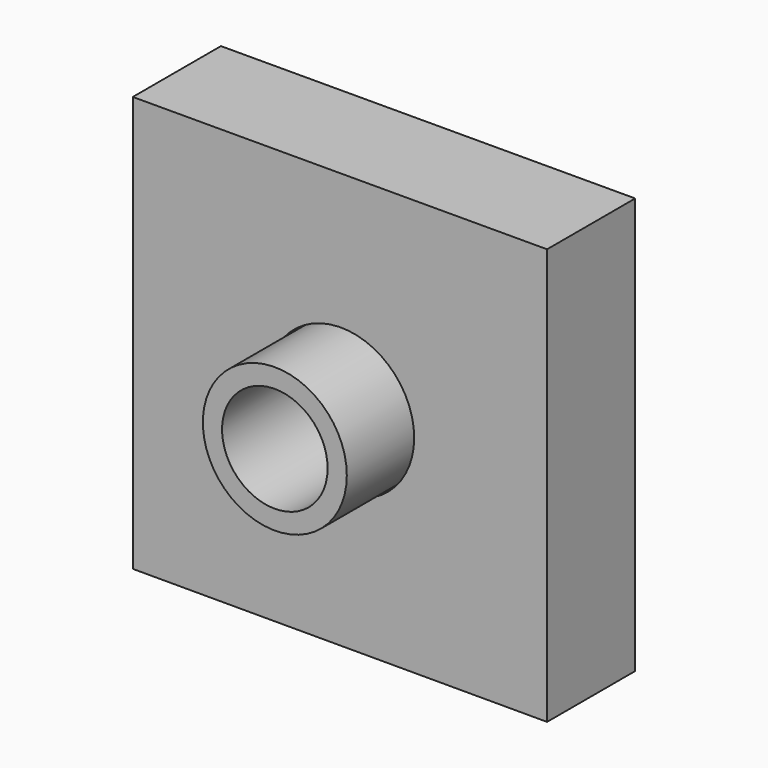
from build123d import *

# Parameters (mm, degrees)
F0_R     = 26.14227
F0_R_2   = 19.17206
F1_DEPTH = 50
F3_R     = 26.610937
F4_DEPTH = 20


with BuildPart() as f1:
    # F0 (on Front) → F1 (new body, symmetric)
    with BuildSketch(Plane.XZ):
        Circle(F0_R)
        Circle(F0_R_2, mode=Mode.SUBTRACT)
    extrude(amount=F1_DEPTH, both=True)


with BuildPart() as f4:
    # F3 (on face) → F4 (new body, symmetric)
    with BuildSketch(Plane.XZ):
        Polygon((74.882455, 75.964503), (-75.583741, 75.746119), (-75.583741, -75.156845), (74.882455, -75.156845), align=None)
        Circle(F3_R, mode=Mode.SUBTRACT)
    extrude(amount=F4_DEPTH, both=True)


solid = Compound([f1.part, f4.part])
